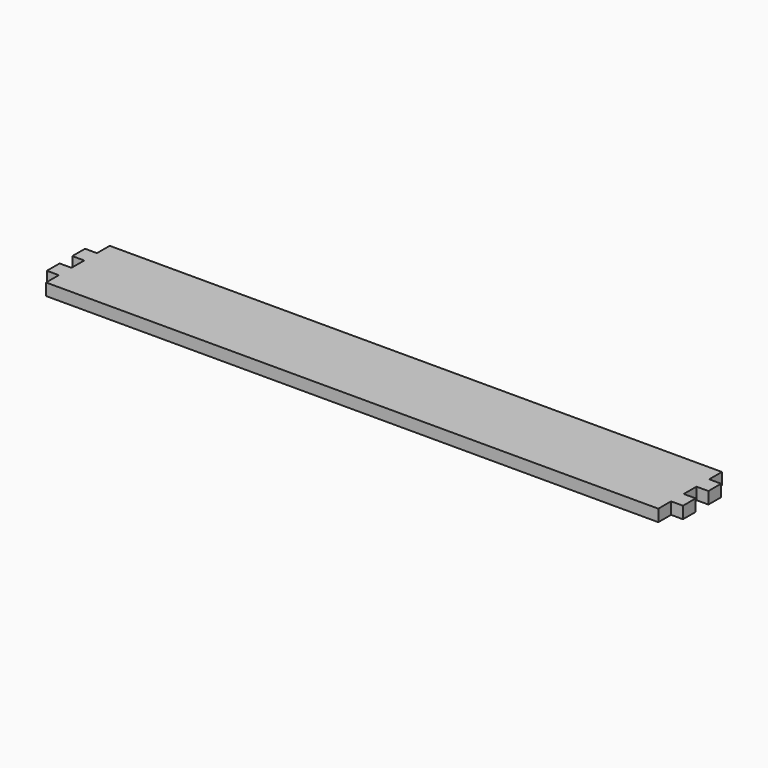
from build123d import *

# Parameters (mm, degrees)
F1_DEPTH = 4.7625


with BuildPart() as f1:
    # F0 (on Top) → F1 (new body)
    with BuildSketch(Plane.XY):
        Polygon((122.2375, 15.875), (-122.2375, 15.875), (-122.2375, 9.525), (-127, 9.525), (-127, 3.175), (-122.2375, 3.175), (-122.2375, -3.175), (-127, -3.175), (-127, -9.525), (-122.2375, -9.525), (-122.2375, -15.875), (122.2375, -15.875), (122.2375, -9.525), (127, -9.525), (127, -3.175), (122.2375, -3.175), (122.2375, 3.175), (127, 3.175), (127, 9.525), (122.2375, 9.525), align=None)
    extrude(amount=F1_DEPTH)


solid = f1.part
